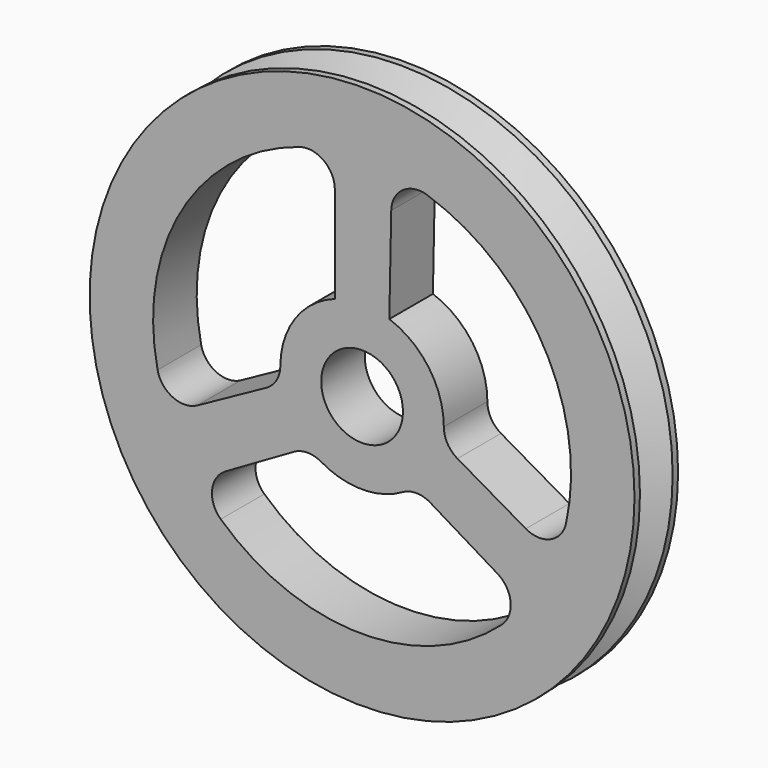
from build123d import *

# Parameters (mm, degrees)
F0_R     = 10
F0_R_2   = 1.5
F1_DEPTH = 1


with BuildPart() as f1:
    # F0 (on Front) → F1 (new body, symmetric)
    with BuildSketch(Plane.XZ):
        Circle(F0_R)
        with BuildLine():
            ThreePointArc((-5.187201, -5.650451), (-5.504943, -4.80447), (-5.010937, -4.047766))
            Line((-5.010937, -4.047766), (-2.5, -2.598076))
            ThreePointArc((-2.5, -2.598076), (-2, -2.464102), (-1.5, -2.598076))
            ThreePointArc((-1.5, -2.598076), (-0.005563, -2.999995), (1.490355, -2.603621))
            ThreePointArc((1.490355, -2.603621), (1.999045, -2.471566), (2.504447, -2.615695))
            Line((2.504447, -2.615695), (4.973182, -4.107977))
            ThreePointArc((4.973182, -4.107977), (5.451468, -4.87), (5.123884, -5.70793))
            ThreePointArc((5.123884, -5.70793), (-0.042758, -7.670256), (-5.187201, -5.650451))
        make_face(mode=Mode.SUBTRACT)
        with BuildLine():
            ThreePointArc((-7.505154, -1.583449), (-6.621257, 3.872157), (-2.299833, 7.317474))
            ThreePointArc((-2.299833, 7.317474), (-1.408322, 7.169656), (-1, 6.363482))
            Line((-1, 6.363482), (-1, 2.828427))
            ThreePointArc((-1, 2.828427), (-2.446274, 1.73659), (-2.999979, 0.011126))
            ThreePointArc((-2.999979, 0.011126), (-3.139961, -0.495441), (-3.517482, -0.861067))
            Line((-3.517482, -0.861067), (-6.044204, -2.252913))
            ThreePointArc((-6.044204, -2.252913), (-6.943278, -2.286109), (-7.505154, -1.583449))
        make_face(mode=Mode.SUBTRACT)
        Circle(F0_R_2, mode=Mode.SUBTRACT)
        with BuildLine():
            Line((1, 2.828427), (1.071022, 6.360891))
            ThreePointArc((1.071022, 6.360891), (1.49181, 7.15611), (2.38127, 7.291379))
            ThreePointArc((2.38127, 7.291379), (6.664015, 3.798099), (7.487035, -1.667023))
            ThreePointArc((7.487035, -1.667023), (6.913265, -2.365186), (6.010937, -2.315716))
            Line((6.010937, -2.315716), (3.5, -0.866025))
            ThreePointArc((3.5, -0.866025), (3.133975, -0.5), (3, 0))
            ThreePointArc((3, 0), (2.44949, 1.732051), (1, 2.828427))
        make_face(mode=Mode.SUBTRACT)
    extrude(amount=F1_DEPTH, both=True)

    # F2 (on Right) → F3 (revolve, cut)
    with BuildSketch(Plane.YZ):
        Polygon((0.75, 10), (0, 10), (0, 8.700962), align=None)
        Polygon((0, 8.700962), (0, 10), (-0.75, 10), align=None)
    revolve(axis=Axis((0, -0.683033, 0), (0, -1, 0)), mode=Mode.SUBTRACT)


solid = f1.part
